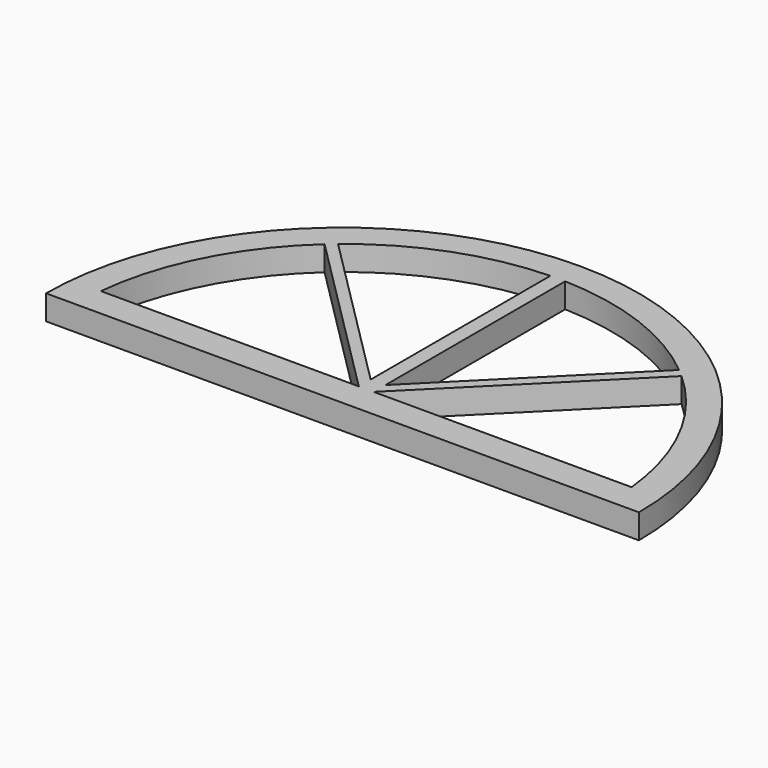
from build123d import *

# Parameters (mm, degrees)
F1_DEPTH = 25


with BuildPart() as f1:
    # F0 (on Top) → F1 (new body)
    with BuildSketch(Plane.XY):
        with BuildLine():
            ThreePointArc((534.253372, -30), (234.253372, 270), (-65.746628, -30))
            Line((-65.746628, -30), (534.253372, -30))
        make_face()
        with BuildLine():
            Line((226.753372, 0), (-34.335003, 0))
            ThreePointArc((-34.335003, 0), (-6.452084, 94.741433), (53.635165, 173.118207))
            Line((53.635165, 173.118207), (226.753372, 0))
        make_face(mode=Mode.SUBTRACT)
        with BuildLine():
            ThreePointArc((414.871579, 173.118207), (474.958829, 94.741433), (502.841748, 0))
            Line((502.841748, 0), (241.753372, 0))
            Line((241.753372, 0), (414.871579, 173.118207))
        make_face(mode=Mode.SUBTRACT)
        with BuildLine():
            Line((226.753372, 242.322557), (226.753372, 15))
            Line((226.753372, 15), (61.678279, 180.075094))
            ThreePointArc((61.678279, 180.075094), (138.988234, 225.061962), (226.753372, 242.322557))
        make_face(mode=Mode.SUBTRACT)
        with BuildLine():
            Line((406.828466, 180.075094), (241.753372, 15))
            Line((241.753372, 15), (241.753372, 242.322557))
            ThreePointArc((241.753372, 242.322557), (329.51851, 225.061962), (406.828466, 180.075094))
        make_face(mode=Mode.SUBTRACT)
    extrude(amount=F1_DEPTH)


solid = f1.part
